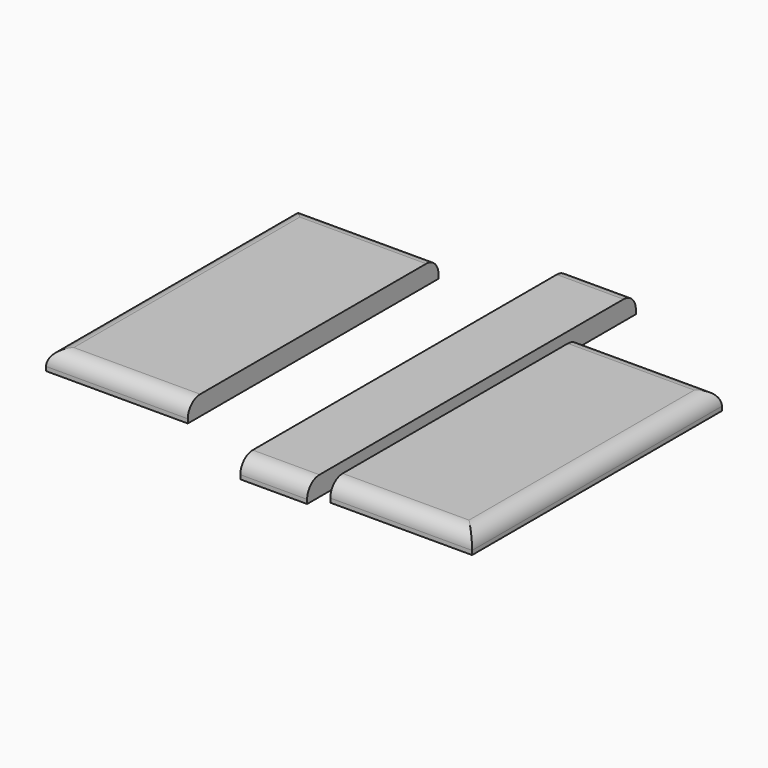
from build123d import *

# Parameters (mm, degrees)
F0_W     = 65
F0_H     = 400
F1_DEPTH = 19
F2_W     = 138
F2_H     = 304.016247
F3_DEPTH = 19
F4_W     = 138
F4_H     = 305
F5_DEPTH = 19
F6_R     = 15
F6_2_R   = 15
F6_3_R   = 15


with BuildPart() as f1:
    # F0 (on Top) → F1 (new body)
    with BuildSketch(Plane.XY):
        with Locations((-84.385906, -30.418005)):
            Rectangle(F0_W, F0_H)
    extrude(amount=F1_DEPTH)

    # F6
    f6_edges = [f1.edges().sort_by_distance(p)[0] for p in [
        (-84.385906, -230.418005, 19),
        (-84.385906, 169.581995, 19),
    ]]
    fillet(f6_edges, radius=F6_R)


with BuildPart() as f3:
    # F2 (on Top) → F3 (new body)
    with BuildSketch(Plane.XY):
        with Locations((29.547637, -65.727256)):
            Rectangle(F2_W, F2_H)
    extrude(amount=F3_DEPTH)

    # F6#3
    f6_3_edges = [f3.edges().sort_by_distance(p)[0] for p in [
        (29.547637, 86.280867, 19),
        (98.547637, -65.727256, 19),
        (29.547637, -217.73538, 19),
    ]]
    fillet(f6_3_edges, radius=F6_3_R)


with BuildPart() as f5:
    # F4 (on Top) → F5 (new body)
    with BuildSketch(Plane.XY):
        with Locations((-274.53736, -31.036693)):
            Rectangle(F4_W, F4_H)
    extrude(amount=F5_DEPTH)

    # F6#2
    f6_2_edges = [f5.edges().sort_by_distance(p)[0] for p in [
        (-274.53736, -183.536693, 19),
        (-343.53736, -31.036693, 19),
        (-274.53736, 121.463307, 19),
    ]]
    fillet(f6_2_edges, radius=F6_2_R)


solid = Compound([f1.part, f3.part, f5.part])
